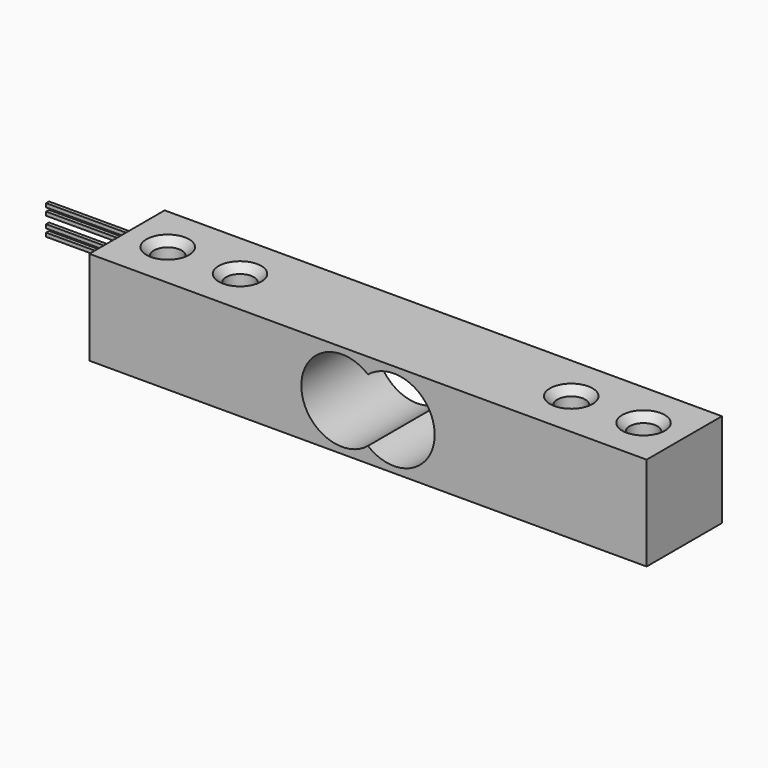
from build123d import *

# Parameters (mm, degrees)
F0_W          = 75.2
F0_H          = 12.7
F1_DEPTH      = 6.35
F1_DEPTH_BACK = 6.35
F3_DEPTH      = 25
F4_W          = 30
F4_H          = 0.5
F5_DEPTH      = 0.5
F6_R          = 1.875
F7_DEPTH      = 25
F8_SIZE       = 1


with BuildPart() as f1:
    # F0 (on Top) → F1 (new body, two sides)
    with BuildSketch(Plane.XY) as f1_sk:
        Rectangle(F0_W, F0_H)
    extrude(amount=F1_DEPTH)
    extrude(f1_sk.sketch, amount=-F1_DEPTH_BACK)

    # F2 (on face) → F3 (cut)
    with BuildSketch(Plane.XZ.offset(6.35)):
        with BuildLine():
            ThreePointArc((0, 4.242641), (-9, 0), (0, -4.242641))
            ThreePointArc((0, -4.242641), (9, 0), (0, 4.242641))
        make_face()
    extrude(amount=-F3_DEPTH, mode=Mode.SUBTRACT)

    # F4 (on face) → F5 (join)
    with BuildSketch(Plane(origin=(0, 6.35, 0), x_dir=(-1, 0, 0), z_dir=(0, 1, 0))):
        with Locations((38.6, 1.75)):
            Rectangle(F4_W, F4_H)
        with Locations((38.6, 0.75)):
            Rectangle(F4_W, F4_H)
        with Locations((38.6, -0.75)):
            Rectangle(F4_W, F4_H)
        with Locations((38.6, -1.75)):
            Rectangle(F4_W, F4_H)
    extrude(amount=F5_DEPTH)

    # F6 (on face) → F7 (cut)
    with BuildSketch(Plane.XY.offset(6.35)):
        with Locations((32.1, 0)):
            Circle(F6_R)
        with Locations((22.35, 0)):
            Circle(F6_R)
        with Locations((-22.35, 0)):
            Circle(F6_R)
        with Locations((-32.1, 0)):
            Circle(F6_R)
    extrude(amount=-F7_DEPTH, mode=Mode.SUBTRACT)

    # F8
    f8_edges = [f1.edges().sort_by_distance(p)[0] for p in [
        (30.225, 0, 6.35),
        (20.475, 0, 6.35),
        (-24.225, 0, 6.35),
        (-33.975, 0, 6.35),
        (-33.975, 0, -6.35),
        (-24.225, 0, -6.35),
        (20.475, 0, -6.35),
        (30.225, 0, -6.35),
    ]]
    chamfer(f8_edges, length=F8_SIZE)


solid = f1.part
